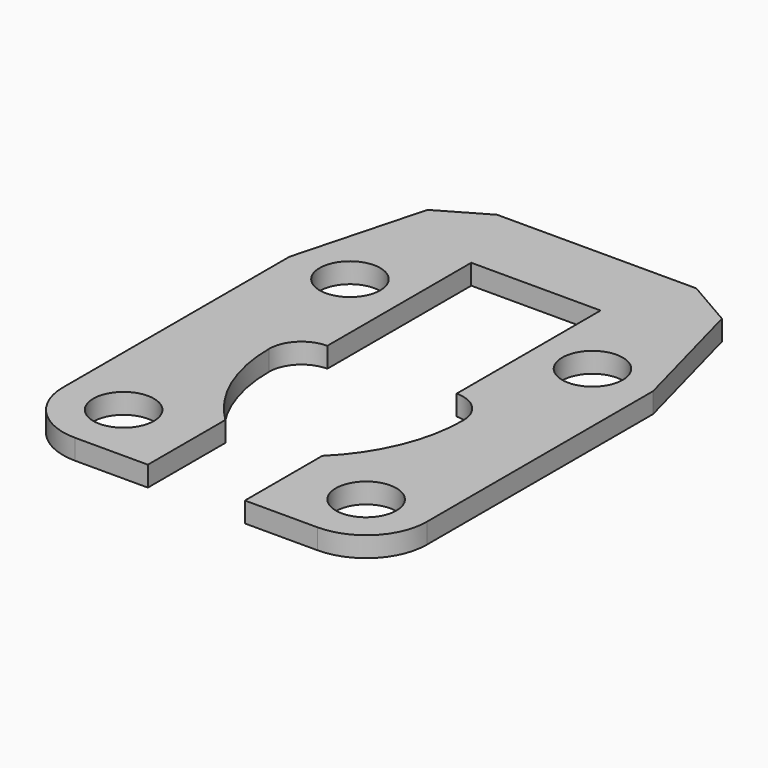
from build123d import *

# Parameters (mm, degrees)
F0_R     = 9.525
F1_DEPTH = 6.35


with BuildPart() as f1:
    # F0 (on Top) → F1 (new body)
    with BuildSketch(Plane.XY):
        with BuildLine():
            Line((-57.15, 66.027492), (-57.15, -22.872508))
            ThreePointArc((-57.15, -22.872508), (-51.570384, -36.342892), (-38.1, -41.922508))
            Line((-38.1, -41.922508), (-15.24, -41.922508))
            Line((-15.24, -41.922508), (-15.24, -11.5236))
            ThreePointArc((-15.24, -11.5236), (-26.515286, 5.080101), (-30.48, 24.754856))
            ThreePointArc((-30.48, 24.754856), (-27.504205, 31.939061), (-20.32, 34.914856))
            Line((-20.32, 34.914856), (-20.32, 91.43222))
            Line((-20.32, 91.43222), (0, 91.43222))
            Line((0, 91.43222), (20.32, 91.43222))
            Line((20.32, 91.43222), (20.32, 34.914856))
            ThreePointArc((20.32, 34.914856), (27.504205, 31.939061), (30.48, 24.754856))
            ThreePointArc((30.48, 24.754856), (26.515286, 5.080101), (15.24, -11.5236))
            Line((15.24, -11.5236), (15.24, -41.922508))
            Line((15.24, -41.922508), (38.1, -41.922508))
            ThreePointArc((38.1, -41.922508), (51.570384, -36.342892), (57.15, -22.872508))
            Line((57.15, -22.872508), (57.15, 66.027492))
            Line((57.15, 66.027492), (46.260545, 106.667492))
            Line((46.260545, 106.667492), (31.294366, 115.30822))
            Line((31.294366, 115.30822), (15.24, 115.30822))
            Line((15.24, 115.30822), (0, 115.30822))
            Line((0, 115.30822), (-15.24, 115.30822))
            Line((-15.24, 115.30822), (-31.294366, 115.30822))
            Line((-31.294366, 115.30822), (-46.260545, 106.667492))
            Line((-46.260545, 106.667492), (-57.15, 66.027492))
        make_face()
        with Locations((-38.1, -22.872508)):
            Circle(F0_R, mode=Mode.SUBTRACT)
        with Locations((38.1, -22.872508)):
            Circle(F0_R, mode=Mode.SUBTRACT)
        with Locations((-38.1, 66.027492)):
            Circle(F0_R, mode=Mode.SUBTRACT)
        with Locations((38.1, 66.027492)):
            Circle(F0_R, mode=Mode.SUBTRACT)
    extrude(amount=F1_DEPTH)


solid = f1.part
